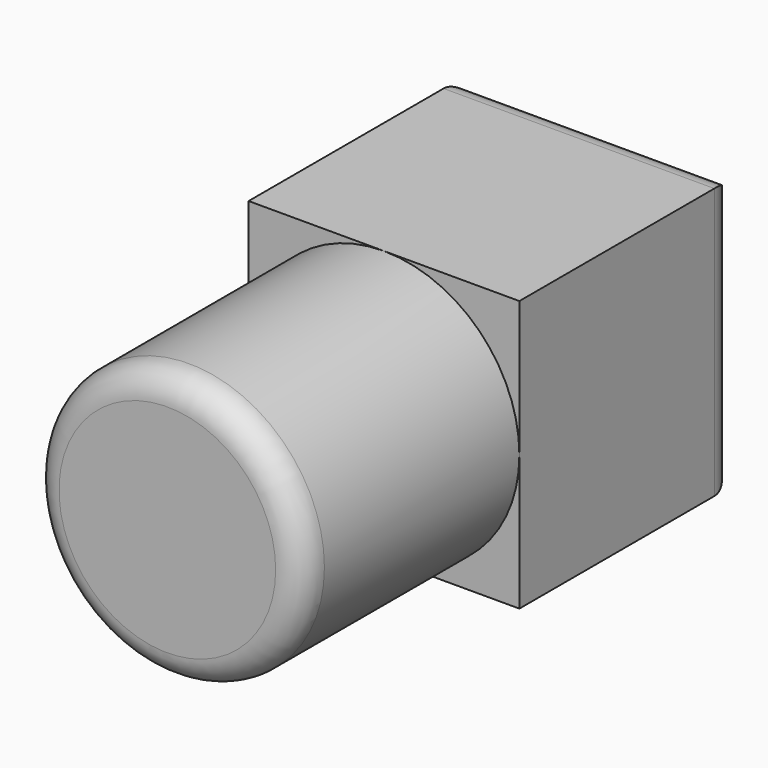
from build123d import *

# Parameters (mm, degrees)
F0_W     = 50.8
F0_H     = 50.8
F1_DEPTH = 50.8
F2_R     = 25.4
F3_DEPTH = 50.8
F4_R     = 5.08
F5_R     = 5.08


with BuildPart() as f1:
    # F0 (on Front) → F1 (new body)
    with BuildSketch(Plane.XZ):
        with Locations((-25.4, 25.4)):
            Rectangle(F0_W, F0_H)
    extrude(amount=F1_DEPTH)

    # F2 (on face) → F3 (join)
    with BuildSketch(Plane.XZ.offset(50.8)):
        with Locations((-25.4, 25.4)):
            Circle(F2_R)
    extrude(amount=F3_DEPTH)

    # F4
    f4_edges = [f1.edges().sort_by_distance(p)[0] for p in [
        (-25.4, 0, 0),
        (0, 0, 25.4),
        (-25.4, 0, 50.8),
        (-50.8, 0, 25.4),
    ]]
    fillet(f4_edges, radius=F4_R)

    # F5
    f5_edges = [f1.edges().sort_by_distance(p)[0] for p in [
        (-50.8, -101.6, 25.4),
    ]]
    fillet(f5_edges, radius=F5_R)


solid = f1.part
